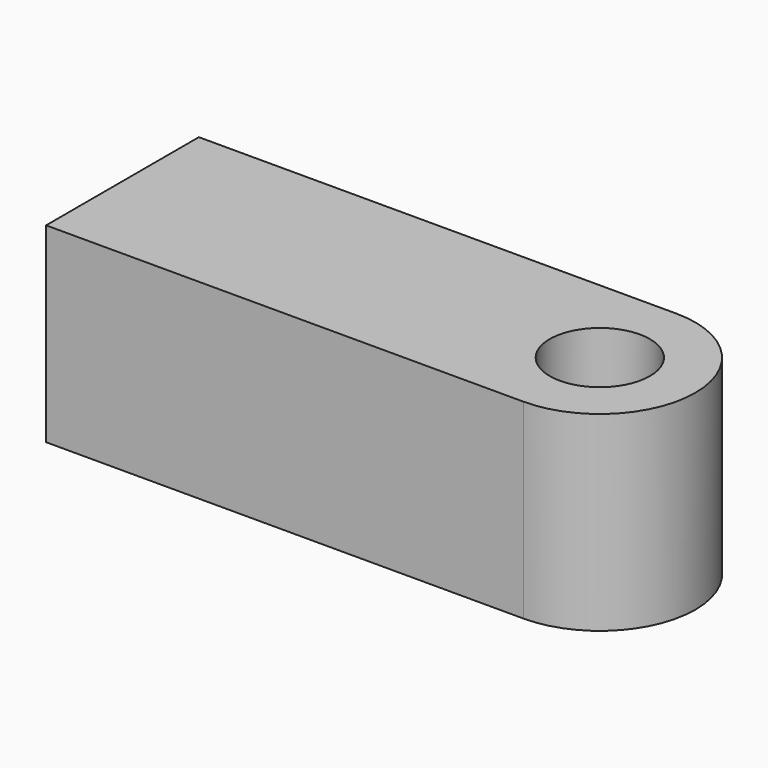
from build123d import *

# Parameters (mm, degrees)
F0_R     = 2.1
F1_DEPTH = 4


with BuildPart() as f1:
    # F0 (on Top) → F1 (new body, symmetric)
    with BuildSketch(Plane.XY):
        with BuildLine():
            Line((-20, -4), (0, -4))
            ThreePointArc((0, -4), (4, 0), (0, 4))
            Line((0, 4), (-20, 4))
            Line((-20, 4), (-20, -4))
        make_face()
        Circle(F0_R, mode=Mode.SUBTRACT)
    extrude(amount=F1_DEPTH, both=True)


solid = f1.part
